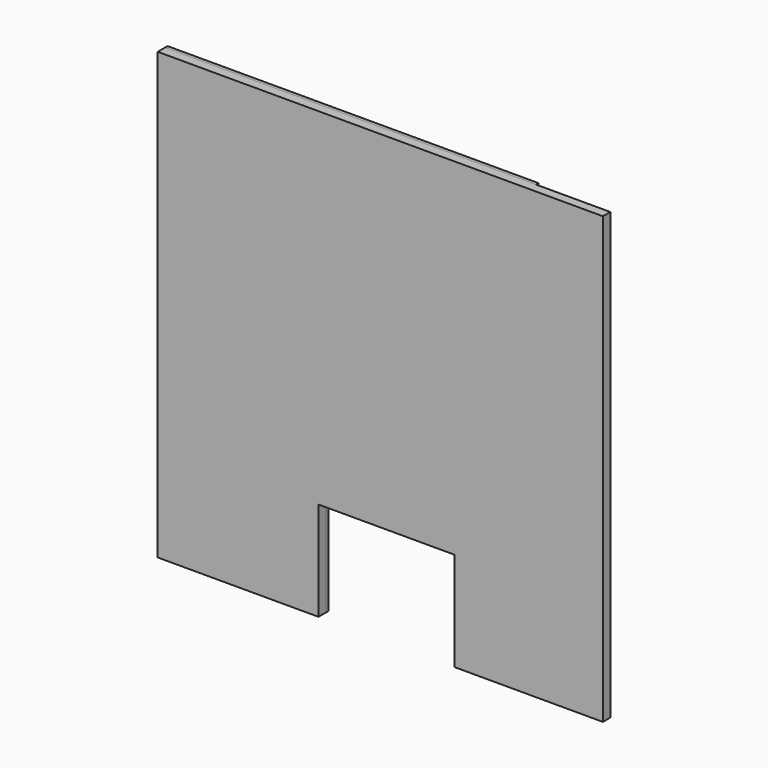
from build123d import *

# Parameters (mm, degrees)
F3_W     = 914.4
F3_H     = 914.4
F4_DEPTH = 19.05
F0_W     = 279.4
F0_H     = 203.2
F5_DEPTH = 25
F1_W     = 25.4
F1_H     = 25.4
F2_DEPTH = 6.35


with BuildPart() as f4:
    # F3 (on Front) → F4 (new body)
    with BuildSketch(Plane.XZ):
        Rectangle(F3_W, F3_H)
    extrude(amount=F4_DEPTH)

    # F0 (on face) → F5 (cut)
    with BuildSketch(Plane.XZ.offset(19.05)):
        with Locations((12.7, -355.6)):
            Rectangle(F0_W, F0_H)
    extrude(amount=-F5_DEPTH, mode=Mode.SUBTRACT)


with BuildPart() as f2:
    # F1 (on face) → F2 (new body)
    with BuildSketch(Plane(origin=(0, 0, 0), x_dir=(-1, 0, 0), z_dir=(0, 1, 0))):
        Polygon((457.2, -457.2), (457.2, 457.2), (-304.8, 457.2), (-304.8, -457.2), (-177.8, -457.2), (-177.8, -431.8), (-279.4, -431.8), (-279.4, 431.8), (431.8, 431.8), (431.8, -431.8), (152.4, -431.8), (152.4, -457.2), align=None)
        with Locations((-165.1, -444.5)):
            Rectangle(F1_W, F1_H)
        Polygon((127, -431.8), (152.4, -431.8), (152.4, -228.6), (-177.8, -228.6), (-177.8, -431.8), (-152.4, -431.8), (-152.4, -254), (127, -254), align=None)
        with Locations((139.7, -444.5)):
            Rectangle(F1_W, F1_H)
    extrude(amount=F2_DEPTH)


solid = Compound([f4.part, f2.part])
